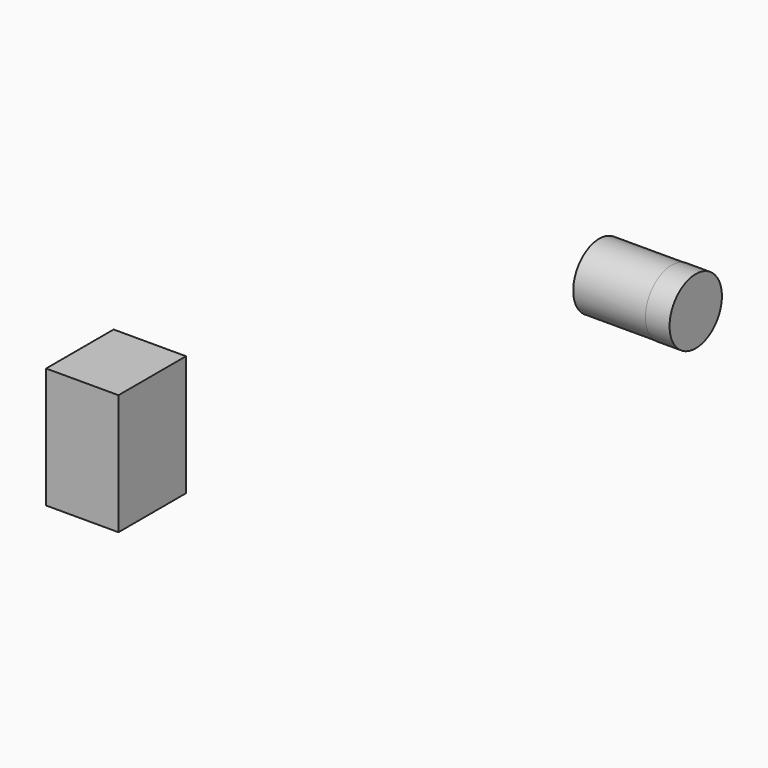
from build123d import *

# Parameters (mm, degrees)
F0_W     = 889
F0_H     = 1270
F0_R     = 341.938253
F0_R_2   = 291.363355
F1_DEPTH = 254
F2_DEPTH = 254
F3_DEPTH = 762
F4_R     = 344.515494
F5_DEPTH = 254


with BuildPart() as f1:
    # F0 (on Right) → F1 (new body)
    with BuildSketch(Plane.YZ):
        with Locations((-7801.139801, 1917.864451)):
            Rectangle(F0_W, F0_H)
        with Locations((-967.086792, 455.410928)):
            Circle(F0_R)
        with Locations((-967.086792, 455.410928)):
            Circle(F0_R_2, mode=Mode.SUBTRACT)
    extrude(amount=F1_DEPTH)


with BuildPart() as f2:
    # F0 (on Right) → F2 (new body)
    with BuildSketch(Plane.YZ):
        with Locations((-7801.139801, 1917.864451)):
            Rectangle(F0_W, F0_H)
        with Locations((-967.086792, 455.410928)):
            Circle(F0_R)
        with Locations((-967.086792, 455.410928)):
            Circle(F0_R_2, mode=Mode.SUBTRACT)
    extrude(amount=F2_DEPTH)


with BuildPart() as f3:
    # F0 (on Right) → F3 (new body)
    with BuildSketch(Plane.YZ):
        with Locations((-7801.139801, 1917.864451)):
            Rectangle(F0_W, F0_H)
        with Locations((-967.086792, 455.410928)):
            Circle(F0_R)
        with Locations((-967.086792, 455.410928)):
            Circle(F0_R_2, mode=Mode.SUBTRACT)
    extrude(amount=F3_DEPTH)

    # F4 (on face) → F5 (join)
    with BuildSketch(Plane.YZ.offset(762)):
        with Locations((-967.086792, 455.410928)):
            Circle(F4_R)
    extrude(amount=F5_DEPTH)


solid = Compound([f1.part, f2.part, f3.part])
